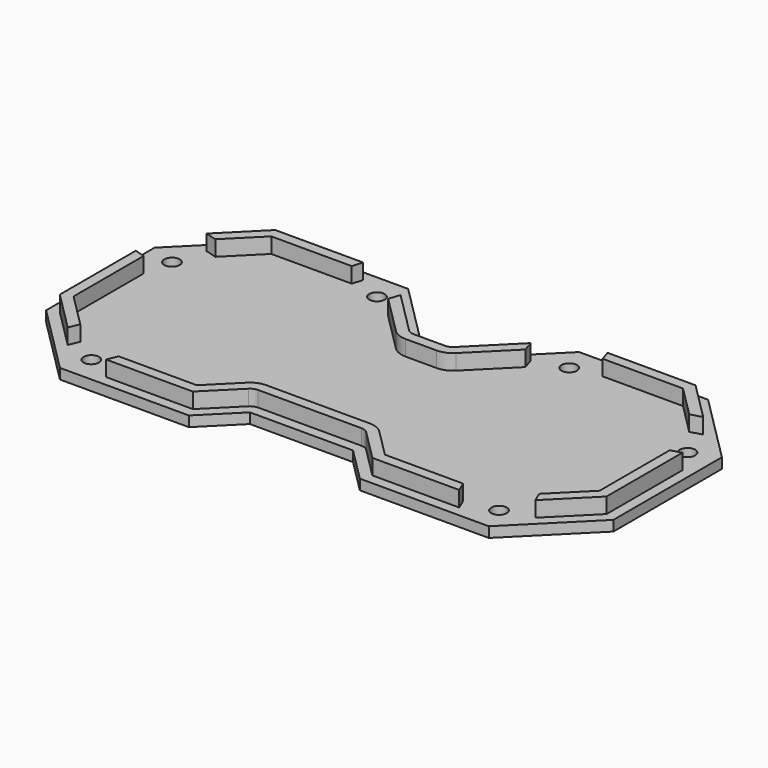
from build123d import *

# Parameters (mm, degrees)
PAD004_DEPTH    = 2
PAD005_DEPTH    = 3
POCKET006_DEPTH = 5
SKETCH015_R     = 1.5
POCKET007_DEPTH = 5


with BuildPart() as part:
    # Sketch011 → Pad004 (new body)
    with BuildSketch(Plane.XY):
        Polygon((-41.575623, -24.575623), (-16.575623, -24.575623), (-10, -18), (10, -18), (16.575623, -24.575623), (41.575623, -24.575623), (55, -11.151247), (55, 15.151247), (41.575623, 28.575623), (16.575623, 28.575623), (3, 15), (-3, 15), (-16.575623, 28.575623), (-41.575623, 28.575623), (-55, 15.151247), (-55, -11.151247), align=None)
    extrude(amount=PAD004_DEPTH)

    # Sketch012 (on Face18 of Pad004) → Pad005 (join)
    with BuildSketch(Plane.XY.offset(2)):
        with BuildLine():
            Line((-53, -10.32282), (-53, 14.32282))
            Line((-53, 14.32282), (-40.747196, 26.575623))
            Line((-40.747196, 26.575623), (-17.40405, 26.575623))
            Line((-17.40405, 26.575623), (-4.414214, 13.585786))
            ThreePointArc((-4.414214, 13.585786), (-3.765367, 13.152241), (-3, 13))
            Line((-3, 13), (3, 13))
            ThreePointArc((3, 13), (3.765367, 13.152241), (4.414214, 13.585786))
            Line((4.414214, 13.585786), (17.40405, 26.575623))
            Line((17.40405, 26.575623), (40.747196, 26.575623))
            Line((40.747196, 26.575623), (53, 14.32282))
            Line((53, 14.32282), (53, -10.32282))
            Line((53, -10.32282), (40.747196, -22.575623))
            Line((40.747196, -22.575623), (17.40405, -22.575623))
            Line((17.40405, -22.575623), (11.414214, -16.585786))
            ThreePointArc((11.414214, -16.585786), (10.765367, -16.152241), (10, -16))
            Line((10, -16), (-10, -16))
            ThreePointArc((-10, -16), (-10.765367, -16.152241), (-11.414214, -16.585786))
            Line((-11.414214, -16.585786), (-17.40405, -22.575623))
            Line((-17.40405, -22.575623), (-40.747196, -22.575623))
            Line((-40.747196, -22.575623), (-53, -10.32282))
        make_face()
        with BuildLine():
            Line((-51, 13.494393), (-39.918769, 24.575623))
            Line((-39.918769, 24.575623), (-18.232477, 24.575623))
            Line((-18.232477, 24.575623), (-5.828427, 12.171573))
            ThreePointArc((-5.828427, 12.171573), (-4.530734, 11.304482), (-3, 11))
            Line((-3, 11), (3, 11))
            ThreePointArc((3, 11), (4.530734, 11.304482), (5.828427, 12.171573))
            Line((5.828427, 12.171573), (18.232477, 24.575623))
            Line((18.232477, 24.575623), (39.918769, 24.575623))
            Line((39.918769, 24.575623), (51, 13.494393))
            Line((51, 13.494393), (51, -9.494393))
            Line((51, -9.494393), (39.918769, -20.575623))
            Line((39.918769, -20.575623), (18.232477, -20.575623))
            Line((18.232477, -20.575623), (12.828427, -15.171573))
            ThreePointArc((12.828427, -15.171573), (11.530734, -14.304482), (10, -14))
            Line((10, -14), (-10, -14))
            ThreePointArc((-10, -14), (-11.530734, -14.304482), (-12.828427, -15.171573))
            Line((-12.828427, -15.171573), (-18.232477, -20.575623))
            Line((-18.232477, -20.575623), (-39.918769, -20.575623))
            Line((-39.918769, -20.575623), (-51, -9.494393))
            Line((-51, -9.494393), (-51, 13.494393))
        make_face(mode=Mode.SUBTRACT)
    extrude(amount=PAD005_DEPTH)

    # Sketch014 (on Face60 of Pad005) → Pocket006 (cut)
    with BuildSketch(Plane.XY.offset(2)):
        with BuildLine():
            ThreePointArc((-11.680199, 24.776311), (-15.604738, 32.299474), (-23.127902, 28.374935))
            Line((-23.127902, 28.374935), (-24.71589, 23.323333))
            ThreePointArc((-24.71589, 23.323333), (-20.791351, 15.800169), (-13.268187, 19.724708))
            Line((-11.680199, 24.776311), (-13.268187, 19.724708))
        make_face()
        with BuildLine():
            ThreePointArc((-51.349969, 20.091476), (-58.768657, 15.972851), (-54.650031, 8.554163))
            Line((-54.650031, 8.554163), (-47.649779, 6.551855))
            ThreePointArc((-47.649779, 6.551855), (-40.231091, 10.67048), (-44.349717, 18.089168))
            Line((-51.349969, 20.091476), (-44.349717, 18.089168))
        make_face()
        with BuildLine():
            ThreePointArc((-46.279481, -20.253162), (-43.069657, -28.107908), (-35.214911, -24.898084))
            Line((-35.214911, -24.898084), (-33.002469, -19.627871))
            ThreePointArc((-33.002469, -19.627871), (-36.212293, -11.773126), (-44.067038, -14.98295))
            Line((-46.279481, -20.253162), (-44.067038, -14.98295))
        make_face()
    pocket006 = extrude(amount=POCKET006_DEPTH, mode=Mode.SUBTRACT)

    # Sketch015 (on Face4 of Pocket006) → Pocket007 (cut)
    with BuildSketch(Plane(origin=(0, 0, 0), x_dir=(1, 0, 0), z_dir=(0, 0, -1))):
        with Locations((-39.529121, 19.526524)):
            Circle(SKETCH015_R)
        with Locations((-49.976597, -13.087161)):
            Circle(SKETCH015_R)
        with Locations((-18.636831, -23.588573)):
            Circle(SKETCH015_R)
    pocket007 = extrude(amount=-POCKET007_DEPTH, mode=Mode.SUBTRACT)

    # Mirrored001: Pocket006, Pocket007 across Sketch014 V_Axis
    add(pocket006.mirror(Plane(origin=(0, 0, 2), x_dir=(0, 0, 1), z_dir=(1, 0, 0))), mode=Mode.SUBTRACT)
    add(pocket007.mirror(Plane(origin=(0, 0, 2), x_dir=(0, 0, 1), z_dir=(1, 0, 0))), mode=Mode.SUBTRACT)


with BuildPart() as part_1:
    # Body002 placement: moved
    add(part.part.moved(Location((0, 0, -42))))


solid = part_1.part
